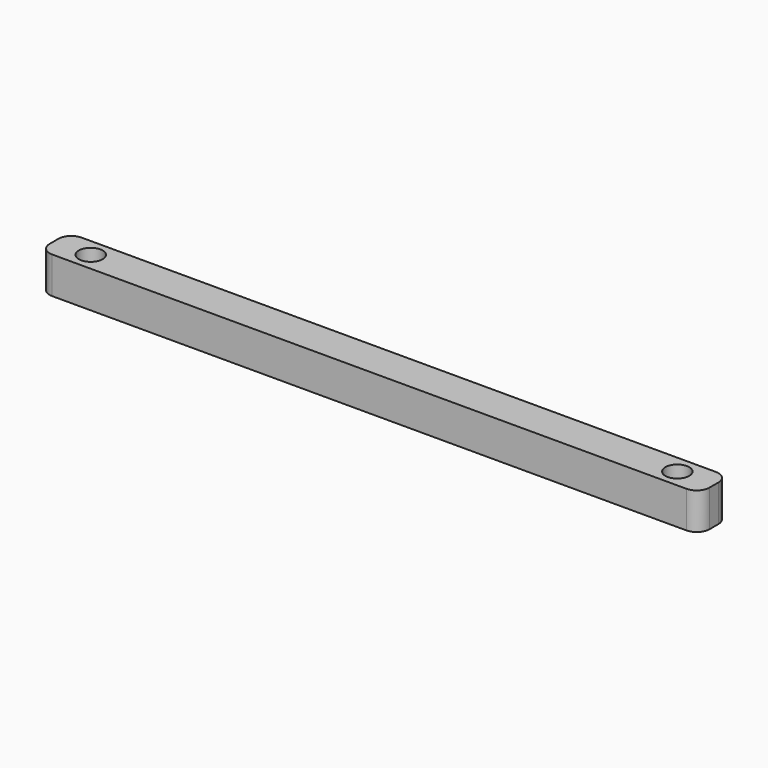
from build123d import *

# Parameters (mm, degrees)
SKETCH003_W     = 36
SKETCH003_H     = 2
PAD_DEPTH       = 2
SKETCH004_R     = 0.65
POCKET001_DEPTH = 5
FILLET_R        = 0.7


with BuildPart() as part:
    # Sketch003 → Pad (new body)
    with BuildSketch(Plane.XY):
        with Locations((18, -1)):
            Rectangle(SKETCH003_W, SKETCH003_H)
    extrude(amount=PAD_DEPTH)

    # Sketch004 (on Face6 of Pad) → Pocket001 (cut)
    with BuildSketch(Plane.XY.offset(2)):
        with Locations((2, -1)):
            Circle(SKETCH004_R)
        with Locations((34, -1)):
            Circle(SKETCH004_R)
    extrude(amount=-POCKET001_DEPTH, mode=Mode.SUBTRACT)

    # Fillet
    fillet_edges = [part.edges().sort_by_distance(p)[0] for p in [
        (0, 0, 1),
        (0, -2, 1),
        (36, -2, 1),
        (36, 0, 1),
    ]]
    fillet(fillet_edges, radius=FILLET_R)


solid = part.part
